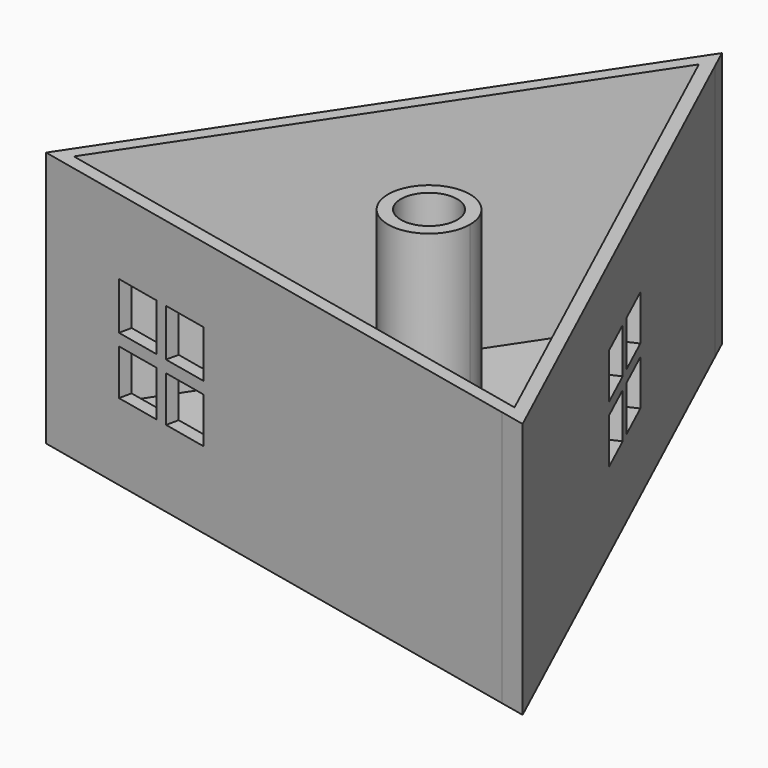
from build123d import *

# Parameters (mm, degrees)
F1_DEPTH = 38.1
F0_R     = 4.1886124366
F2_DEPTH = 5.08
F3_W     = 6.9084239401
F3_H     = 7.0400872709
F3_H_2   = 6.7767606093
F4_DEPTH = 1.905
F5_W     = 6.731
F5_H     = 6.731
F6_DEPTH = 2.54


with BuildPart() as f1:
    # F0 (on Top) → F1 (new body)
    with BuildSketch(Plane.XY):
        Polygon((0.3138544264, 51.8303324458), (-43.813505187, -14.4413347066), (-45.3524620612, -16.7525819378), (36.7754336205, -34.671347872), (40.5160950538, -35.4874900135), (1.7399032001, 48.7330057371), align=None)
        Polygon((-42.2325333996, -15.4940335989), (0, 47.9319320828), (37.1793172874, -32.8202094742), align=None, mode=Mode.SUBTRACT)
    extrude(amount=F1_DEPTH)

    # F3 (on face) → F4 (cut)
    with BuildSketch(Plane(origin=(-5.5498260355, -25.4367703319, 0), x_dir=(0.9770158795, -0.2131665339, 0), z_dir=(-0.2131665339, -0.9770158795, 0))):
        with Locations((-23.8466220251, 23.4590436355)):
            Rectangle(F3_W, F3_H)
        with Locations((-23.8466220251, 14.7726196953)):
            Rectangle(F3_W, F3_H_2)
        with Locations((-15.1601980849, 14.7726196953)):
            Rectangle(F3_W, F3_H_2)
        with Locations((-15.1601980849, 23.4590436355)):
            Rectangle(F3_W, F3_H)
    extrude(amount=-F4_DEPTH, mode=Mode.SUBTRACT)

    # F5 (on face) → F6 (cut)
    with BuildSketch(Plane(origin=(19.9485164965, 9.1845517647, 0), x_dir=(-0.4182150426, 0.908348049, 0), z_dir=(0.908348049, 0.4182150426, 0))):
        with Locations((-4.2545, 23.3045)):
            Rectangle(F5_W, F5_H)
        with Locations((-4.2545, 14.7955)):
            Rectangle(F5_W, F5_H)
        with Locations((4.2545, 14.7955)):
            Rectangle(F5_W, F5_H)
        with Locations((4.2545, 23.3045)):
            Rectangle(F5_W, F5_H)
    extrude(amount=-F6_DEPTH, mode=Mode.SUBTRACT)


with BuildPart() as f1b:
    # F0 (on Top) → F1, piece 2 (new body)
    with BuildSketch(Plane.XY):
        with BuildLine():
            ThreePointArc((-5.6520700455, 4.4974683597), (-4.2294693897, -5.6641112392), (4.4092070658, -0.1274369968))
            ThreePointArc((4.4092070658, -0.1274369968), (3.9380171559, 2.222132636), (2.5973171511, 4.2083403007))
            ThreePointArc((2.5973171511, 4.2083403007), (-1.4709648838, 5.9624362109), (-5.6520700455, 4.4974683597))
        make_face()
        with Locations((-1.6844053707, -0.1274369968)):
            Circle(F0_R, mode=Mode.SUBTRACT)
    extrude(amount=F1_DEPTH)


with BuildPart() as f2:
    # F0 (on Top) → F2 (new body)
    with BuildSketch(Plane.XY):
        Polygon((37.1793172874, -32.8202094742), (0, 47.9319320828), (-42.2325333996, -15.4940335989), align=None)
        with BuildLine():
            ThreePointArc((2.5973171511, 4.2083403007), (3.9380171559, 2.222132636), (4.4092070658, -0.1274369968))
            ThreePointArc((4.4092070658, -0.1274369968), (-4.2294693897, -5.6641112392), (-5.6520700455, 4.4974683597))
            Line((-5.6520700455, 4.4974683597), (-5.6520700455, 10.3990221396))
            Line((-5.6520700455, 10.3990221396), (-1.3207900295, 10.2472175808))
            Line((-1.3207900295, 10.2472175808), (3.0104899866, 10.0954130219))
            Line((3.0104899866, 10.0954130219), (2.5973171511, 4.2083403007))
        make_face(mode=Mode.SUBTRACT)
    extrude(amount=F2_DEPTH)


solid = Compound([f1.part, f1b.part, f2.part])
